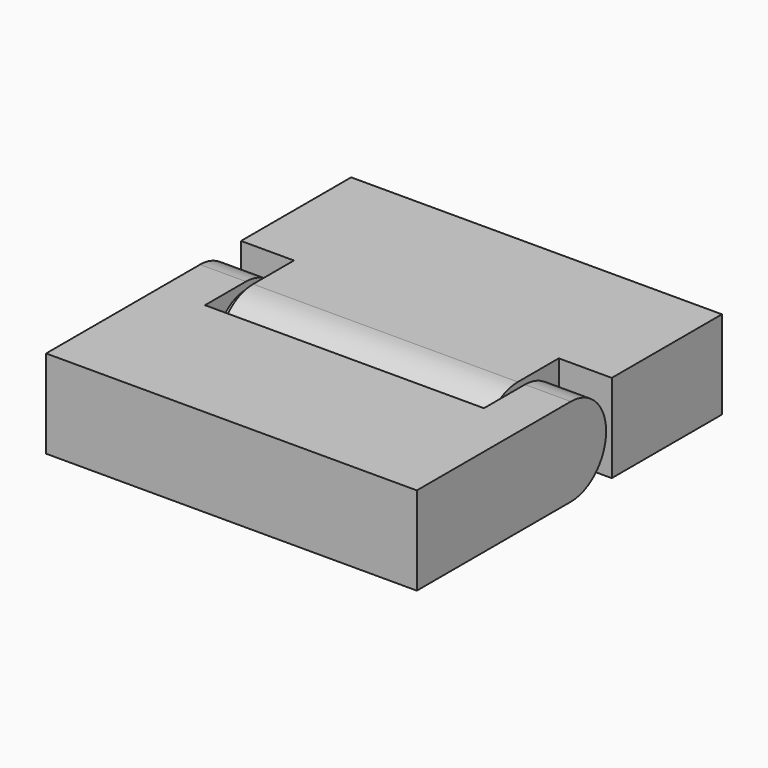
from build123d import *

# Parameters (mm, degrees)
BOX001_W          = 15.8
BOX001_H          = 5.8
BOX001_DEPTH      = 5
CYLINDER_R        = 2.5
CYLINDER_DEPTH    = 21
BOX_W             = 21
BOX_H             = 10.9
BOX_DEPTH         = 5
BOX002_W          = 15
BOX002_H          = 10.5
BOX002_DEPTH      = 5
CYLINDER001_R     = 2.5
CYLINDER001_DEPTH = 15
BOX003_W          = 21
BOX003_H          = 7.8
BOX003_DEPTH      = 5


with BuildPart() as cone003:
    # Cone003 → Cone003 (revolve)
    with BuildSketch(Plane(origin=(16.8, 10.9, 2.5), x_dir=(0, 0, -1), z_dir=(0, -1, 0))):
        Polygon((0, 0), (0.5, 0), (2.1, 1.6), (0, 1.6), align=None)
    revolve(axis=Axis((16.8, 10.9, 2.5), (1, 0, 0)))


with BuildPart() as cube001:
    # Box001 → Box001 (new body)
    with BuildSketch(Plane(origin=(2.6, 8, 0), x_dir=(1, 0, 0), z_dir=(0, 0, 1))):
        with Locations((7.9, 2.9)):
            Rectangle(BOX001_W, BOX001_H)
    extrude(amount=BOX001_DEPTH)


with BuildPart() as cylinder:
    # Cylinder → Cylinder (new body)
    with BuildSketch(Plane(origin=(0, 10.9, 2.5), x_dir=(0, 0, -1), z_dir=(1, 0, 0))):
        Circle(CYLINDER_R)
    extrude(amount=CYLINDER_DEPTH)


with BuildPart() as cut:
    # Box → Box (new body)
    with BuildSketch(Plane.XY):
        with Locations((10.5, 5.45)):
            Rectangle(BOX_W, BOX_H)
    extrude(amount=BOX_DEPTH)

    # Fusion: union Cylinder
    add(cylinder.part)

    # Cut: cut Cube001
    add(cube001.part, mode=Mode.SUBTRACT)


with BuildPart() as fusion001:
    # Cone → Cone (revolve)
    with BuildSketch(Plane(origin=(4.2, 10.9, 2.5), x_dir=(0, 0, 1), z_dir=(0, -1, 0))):
        Polygon((0, 0), (0.5, 0), (2.1, 1.6), (0, 1.6), align=None)
    revolve(axis=Axis((4.2, 10.9, 2.5), (-1, 0, 0)))

    # Fusion001: union Cone003, Cut
    add(cone003.part)
    add(cut.part)


with BuildPart() as cone002:
    # Cone002 → Cone002 (revolve)
    with BuildSketch(Plane(origin=(4.6, 10.9, 2.5), x_dir=(0, 0, 1), z_dir=(0, -1, 0))):
        Polygon((0, 0), (0.5, 0), (2.5, 2), (0, 2), align=None)
    revolve(axis=Axis((4.6, 10.9, 2.5), (-1, 0, 0)))


with BuildPart() as fusion003:
    # Cone004 → Cone004 (revolve)
    with BuildSketch(Plane(origin=(16.4, 10.9, 2.5), x_dir=(0, 0, -1), z_dir=(0, -1, 0))):
        Polygon((0, 0), (0.5, 0), (2.5, 2), (0, 2), align=None)
    revolve(axis=Axis((16.4, 10.9, 2.5), (1, 0, 0)))

    # Fusion003: union Cone002
    add(cone002.part)


with BuildPart() as cube002:
    # Box002 → Box002 (new body)
    with BuildSketch(Plane(origin=(3, 10.9, 0), x_dir=(1, 0, 0), z_dir=(0, 0, 1))):
        with Locations((7.5, 5.25)):
            Rectangle(BOX002_W, BOX002_H)
    extrude(amount=BOX002_DEPTH)


with BuildPart() as cylinder001:
    # Cylinder001 → Cylinder001 (new body)
    with BuildSketch(Plane(origin=(3, 10.9, 2.5), x_dir=(0, 0, -1), z_dir=(1, 0, 0))):
        Circle(CYLINDER001_R)
    extrude(amount=CYLINDER001_DEPTH)


with BuildPart() as cut001:
    # Box003 → Box003 (new body)
    with BuildSketch(Plane(origin=(0, 13.8, 0), x_dir=(1, 0, 0), z_dir=(0, 0, 1))):
        with Locations((10.5, 3.9)):
            Rectangle(BOX003_W, BOX003_H)
    extrude(amount=BOX003_DEPTH)

    # Fusion002: union Cube002, Cylinder001
    add(cube002.part)
    add(cylinder001.part)

    # Cut001: cut Fusion003
    add(fusion003.part, mode=Mode.SUBTRACT)


solid = Compound([fusion001.part, cut001.part])
